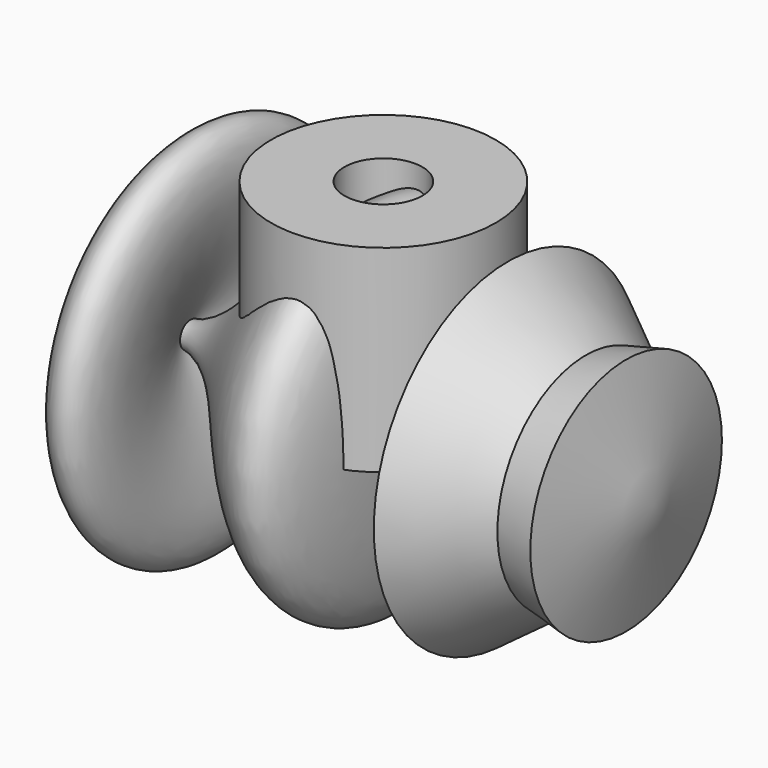
from build123d import *

# Parameters (mm, degrees)
F0_R     = 249.974151
F1_DEPTH = 439.42
F2_R     = 86.630046
F3_DEPTH = 340.36


with BuildPart() as f1:
    # F0 (on Top) → F1 (new body)
    with BuildSketch(Plane.XY):
        Circle(F0_R)
    extrude(amount=F1_DEPTH)

    # F2 (on face) → F3 (cut)
    with BuildSketch(Plane.XY.offset(439.42)):
        Circle(F2_R)
    extrude(amount=-F3_DEPTH, mode=Mode.SUBTRACT)


with BuildPart() as f5:
    # F4 (on Top) → F5 (revolve)
    with BuildSketch(Plane.XY):
        with BuildLine():
            add(Edge.make_bspline(
                [(-480.023086, 0), (-592.217803, 521.918595), (-164.74165, 577.305853), (-428.896338, 29.113825)],
                knots=[0, 0, 0, 0, 58.835017, 58.835017, 58.835017, 58.835017], degree=3))
            Line((-480.023086, 0), (600.738883, 0))
            Line((600.738883, 0), (539.670944, 266.285002))
            Line((539.670944, 266.285002), (450.028322, 245.726991))
            Line((450.028322, 245.726991), (276.936382, 372.799009))
            Line((276.936382, 372.799009), (276.936382, 77.400178))
            Line((276.936382, 77.400178), (105.093814, 77.400178))
            add(Edge.make_bspline(
                [(105.093814, 77.400178), (92.312127, 821.577907), (-250.89962, 45.209276), (-428.896338, 29.113825)],
                knots=[0, 0, 0, 0, 536.168867, 536.168867, 536.168867, 536.168867], degree=3))
        make_face()
    revolve(axis=Axis((60.357898, 0, 0), (1, 0, 0)))


solid = Compound([f1.part, f5.part])
